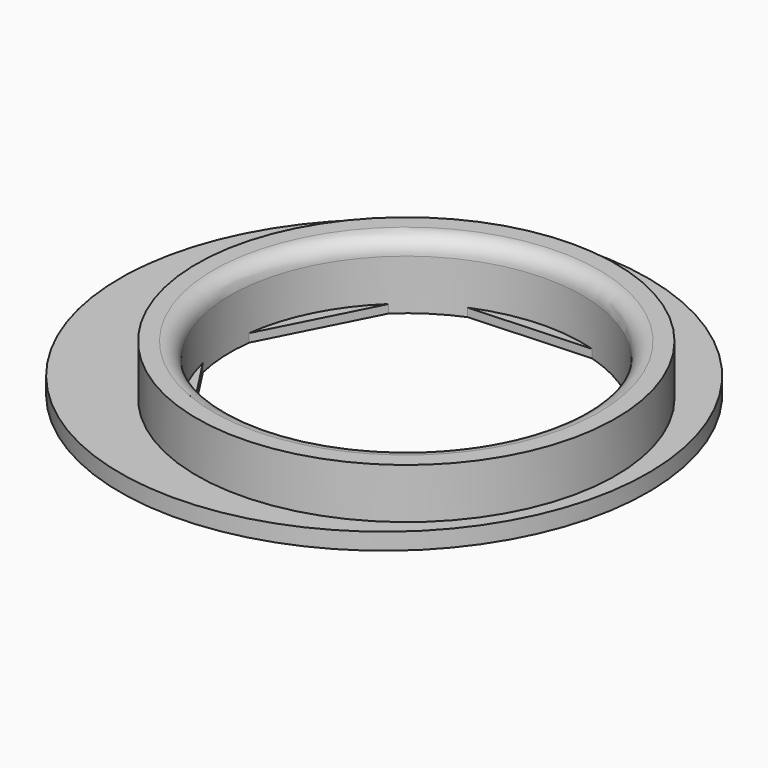
from build123d import *

# Parameters (mm, degrees)
SKETCH044_R             = 6.3
SKETCH044_R_2           = 4.2
PAD022_DEPTH            = 0.4
SKETCH049_R             = 5
SKETCH049_R_2           = 4.2
PAD027_DEPTH            = 1.2
PAD037_DEPTH            = 0.2
POLARPATTERN_COUNT      = 6
FILLET002_R             = 0.4
BODY009_PLACEMENT_ANGLE = 153


with BuildPart() as part:
    # Sketch044 → Pad022 (new body)
    with BuildSketch(Plane.XY):
        with Locations((1, 0)):
            Circle(SKETCH044_R)
        Circle(SKETCH044_R_2, mode=Mode.SUBTRACT)
    extrude(amount=PAD022_DEPTH)

    # Sketch049 (on Face4 of Pad022) → Pad027 (join)
    with BuildSketch(Plane.XY.offset(0.4)):
        Circle(SKETCH049_R)
        Circle(SKETCH049_R_2, mode=Mode.SUBTRACT)
    extrude(amount=PAD027_DEPTH)

    # Sketch074 (on Face2 of Pad027) → Pad037 (join)
    with BuildSketch(Plane(origin=(0, 0, 0), x_dir=(1, 0, 0), z_dir=(0, 0, -1))):
        with BuildLine():
            ThreePointArc((3.95, -1.4274102424), (4.2, 0), (3.95, 1.4274102424))
            Line((3.95, 1.4274102424), (3.95, -1.4274102424))
        make_face()
    pad037 = extrude(amount=-PAD037_DEPTH)

    # PolarPattern: Pad037 ×6 about axis
    polarpattern_axis = Axis((0, 0, 0), (0, 0, -1))
    for i in range(1, POLARPATTERN_COUNT):
        add(pad037.rotate(polarpattern_axis, i * 360 / POLARPATTERN_COUNT))

    # Fillet002
    fillet002_edges = [part.edges().sort_by_distance(p)[0] for p in [
        (-4.2, 0, 1.6),
    ]]
    fillet(fillet002_edges, radius=FILLET002_R)


with BuildPart() as part_1:
    # Body009 placement: moved
    add(part.part.moved(Location((0, 0, 4))).rotate(Axis((0, 0, 4), (0, 0, 1)), BODY009_PLACEMENT_ANGLE))


solid = part_1.part
